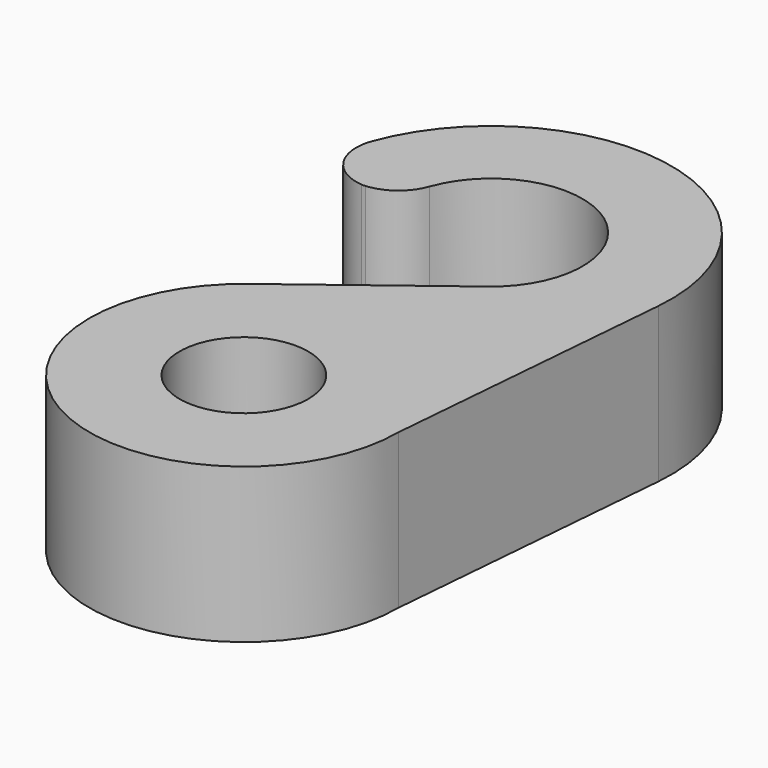
from build123d import *

# Parameters (mm, degrees)
F0_R     = 1.25
F1_DEPTH = 3


with BuildPart() as f1:
    # F0 (on Top) → F1 (new body)
    with BuildSketch(Plane.XY):
        with BuildLine():
            Line((-1.3258543741, 2.7608473054), (-1.8165472056, 2.3875))
            ThreePointArc((-1.8165472056, 2.3875), (-1.3323585072, -2.6879026784), (3, 0))
            Line((3, 0), (3.4872887332, 5.7019776999))
            ThreePointArc((3.4872887332, 5.7019776999), (0.7616189602, 9.4161288851), (-3.2836221701, 7.2115384615))
            ThreePointArc((-3.2836221701, 7.2115384615), (-3.1888603562, 6.4019010344), (-2.4791572924, 6.000884668))
            ThreePointArc((-2.4791572924, 6.000884668), (-1.9844699082, 6.1759685379), (-1.6715207522, 6.5971962617))
            ThreePointArc((-1.6715207522, 6.5971962617), (1.048258656, 7.4324031521), (1.07479043, 4.5873958333))
            Line((1.07479043, 4.5873958333), (-1.3258543741, 2.7608473054))
        make_face()
        Circle(F0_R, mode=Mode.SUBTRACT)
    extrude(amount=F1_DEPTH)


with BuildPart() as f1b:
    # F0 (on Top) → F1, piece 2 (new body)
    with BuildSketch(Plane.XY):
        with BuildLine():
            ThreePointArc((-2.4392621835, 6), (-2.4592146417, 6.0002211942), (-2.4791572924, 6.000884668))
            ThreePointArc((-2.4791572924, 6.000884668), (-2.499099943, 6.0002211942), (-2.5190524012, 6))
            Line((-2.5190524012, 6), (-2.4392621835, 6))
        make_face()
    extrude(amount=F1_DEPTH)


solid = Compound([f1.part, f1b.part])
